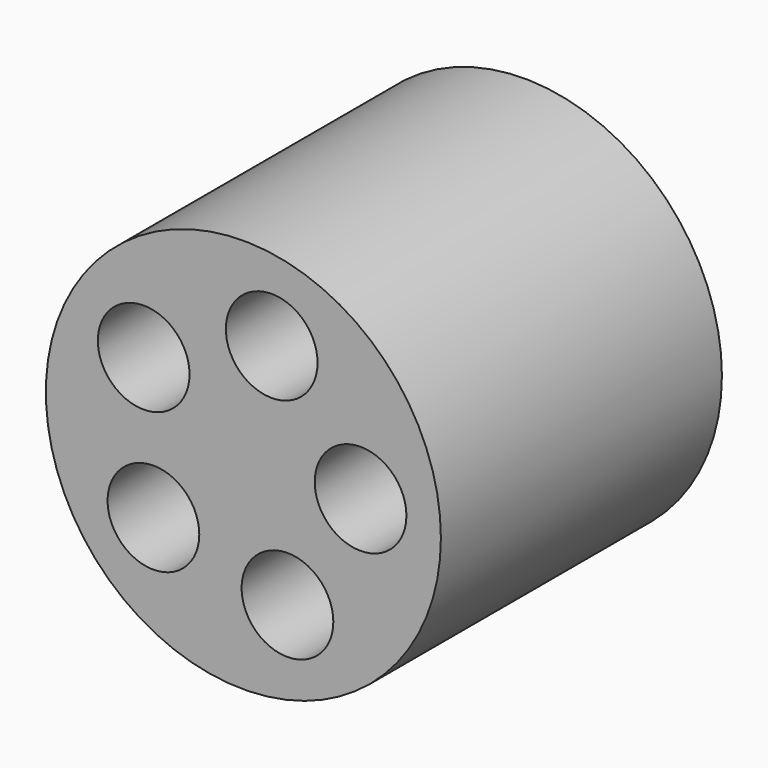
from build123d import *

# Parameters (mm, degrees)
F0_R     = 58.18106
F1_DEPTH = 103.465883
F2_R     = 13.503073
F3_DEPTH = 177.737946
F4_DEPTH = 213.257074


with BuildPart() as f1:
    # F0 (on Front) → F1 (new body)
    with BuildSketch(Plane.XZ):
        Circle(F0_R)
    extrude(amount=F1_DEPTH)

    # F2 (on face) → F3 (cut)
    with BuildSketch(Plane.XZ.offset(103.465883)):
        with Locations((8.346159, 33.583872)):
            Circle(F2_R)
    extrude(amount=-F3_DEPTH, mode=Mode.SUBTRACT)

    # F2 (on face) → F4 (cut)
    with BuildSketch(Plane.XZ.offset(103.465883)):
        with Locations((-29.361053, 18.31566)):
            Circle(F2_R)
        with Locations((-26.492292, -22.264171)):
            Circle(F2_R)
        with Locations((12.987918, -32.075673)):
            Circle(F2_R)
        with Locations((34.519265, 2.440317)):
            Circle(F2_R)
    extrude(amount=-F4_DEPTH, mode=Mode.SUBTRACT)


solid = f1.part
